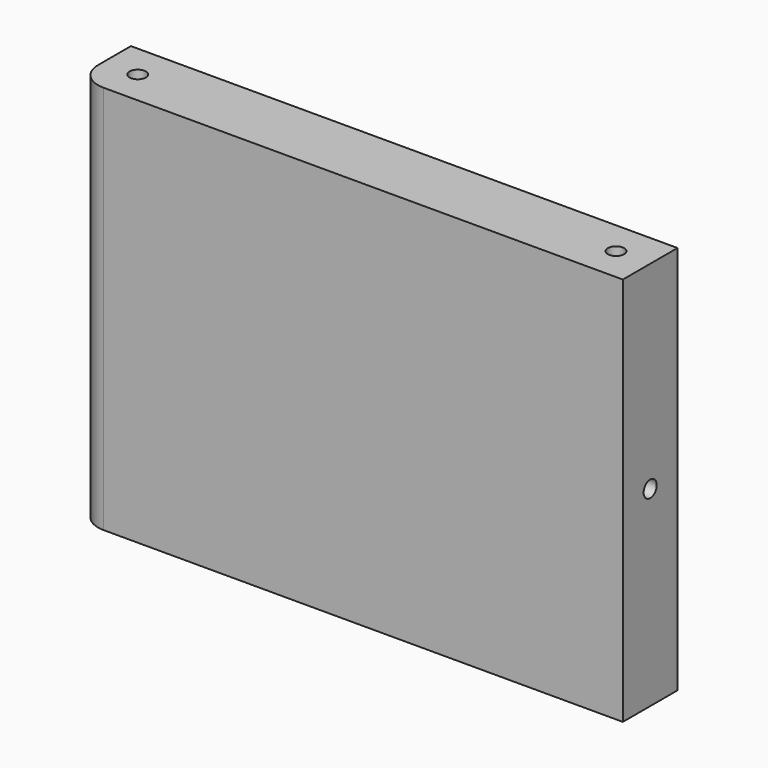
from build123d import *

# Parameters (mm, degrees)
CYLINDER109_R     = 1.2
CYLINDER109_DEPTH = 100
CYLINDER111_R     = 1.2
CYLINDER111_DEPTH = 100
CYLINDER106_R     = 1.2
CYLINDER106_DEPTH = 100
BOX037_W          = 80
BOX037_H          = 10
BOX037_DEPTH      = 57
FILLET016_R       = 4


with BuildPart() as screwhole057:
    # Cylinder109 → Cylinder109 (new body)
    with BuildSketch(Plane(origin=(55, 35, -20), x_dir=(1, 0, 0), z_dir=(0, 0, 1))):
        Circle(CYLINDER109_R)
    extrude(amount=CYLINDER109_DEPTH)


with BuildPart() as screwhole059:
    # Cylinder111 → Cylinder111 (new body)
    with BuildSketch(Plane(origin=(55, 35, 20), x_dir=(0, 0, -1), z_dir=(1, 0, 0))):
        Circle(CYLINDER111_R)
    extrude(amount=CYLINDER111_DEPTH)


with BuildPart() as fusion001002012030038:
    # Cylinder106 → Cylinder106 (new body)
    with BuildSketch(Plane(origin=(125, 35, -20), x_dir=(1, 0, 0), z_dir=(0, 0, 1))):
        Circle(CYLINDER106_R)
    extrude(amount=CYLINDER106_DEPTH)

    # Fusion001002012030038: union ScrewHole057, ScrewHole059
    add(screwhole057.part)
    add(screwhole059.part)


with BuildPart() as side002:
    # Box037 → Box037 (new body)
    with BuildSketch(Plane(origin=(50, 30, -8), x_dir=(1, 0, 0), z_dir=(0, 0, 1))):
        with Locations((40, 5)):
            Rectangle(BOX037_W, BOX037_H)
    extrude(amount=BOX037_DEPTH)

    # Fillet016
    fillet016_edges = [side002.edges().sort_by_distance(p)[0] for p in [
        (50, 30, 20.5),
    ]]
    fillet(fillet016_edges, radius=FILLET016_R)

    # Cut015017007032: cut Fusion001002012030038
    add(fusion001002012030038.part, mode=Mode.SUBTRACT)


solid = side002.part
